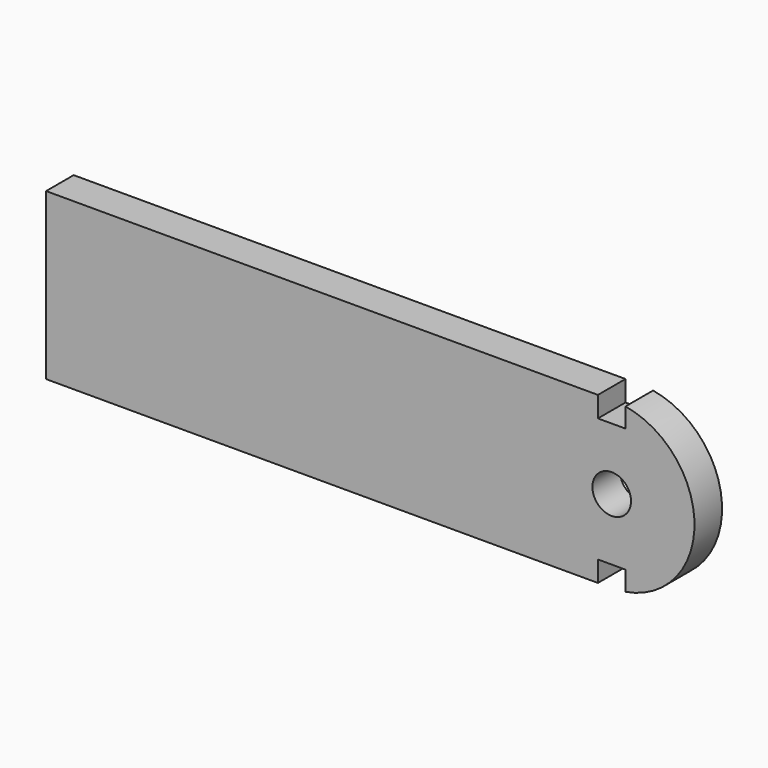
from build123d import *

# Parameters (mm, degrees)
F0_R     = 1.778
F1_DEPTH = 3.175


with BuildPart() as f1:
    # F0 (on Front) → F1 (new body)
    with BuildSketch(Plane.XZ):
        with BuildLine():
            Line((17.78, 1.905), (17.78, 3.81))
            Line((17.78, 3.81), (-33.02, 3.81))
            Line((-33.02, 3.81), (-33.02, -11.43))
            Line((-33.02, -11.43), (17.78, -11.43))
            Line((17.78, -11.43), (17.78, -9.525))
            Line((17.78, -9.525), (20.32, -9.525))
            Line((20.32, -9.525), (20.32, -11.323421))
            ThreePointArc((20.32, -11.323421), (26.67, -3.81), (20.32, 3.703421))
            Line((20.32, 3.703421), (20.32, 1.905))
            Line((20.32, 1.905), (17.78, 1.905))
        make_face()
        with Locations((19.05, -3.81)):
            Circle(F0_R, mode=Mode.SUBTRACT)
    extrude(amount=F1_DEPTH)


solid = f1.part
